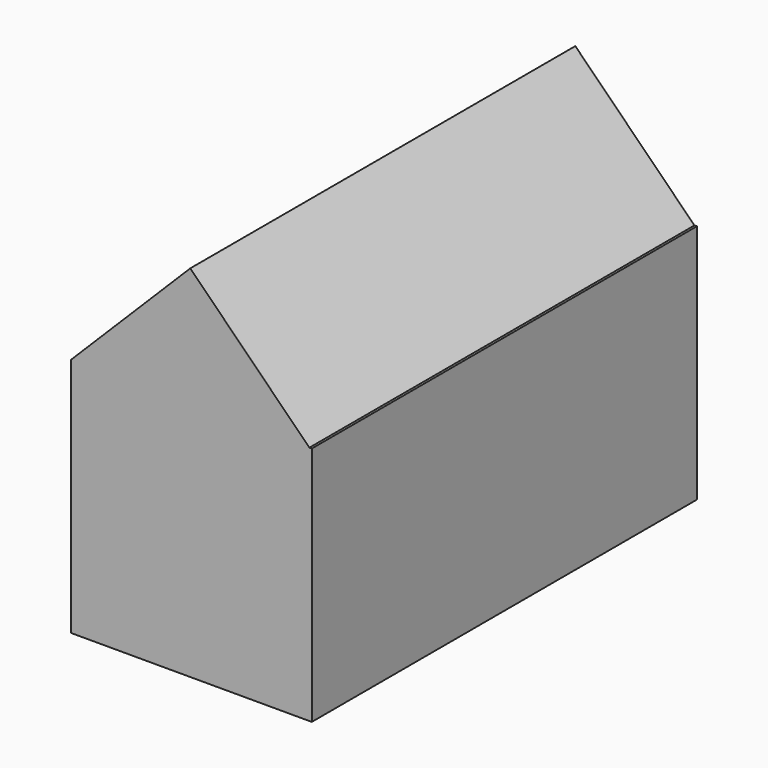
from build123d import *

# Parameters (mm, degrees)
BOX001_W               = 7
BOX001_H               = 20
BOX001_DEPTH           = 7
BOX001_PLACEMENT_ANGLE = 45
BOX_W                  = 10
BOX_H                  = 20
BOX_DEPTH              = 10


with BuildPart() as cub001:
    # Box001 → Box001 (new body)
    with BuildSketch(Plane.XY):
        with Locations((3.5, 10)):
            Rectangle(BOX001_W, BOX001_H)
    extrude(amount=BOX001_DEPTH)


with BuildPart() as cub001_1:
    # Box001 placement: moved
    add(cub001.part.moved(Location((0, 0, 10))).rotate(Axis((0, 0, 10), (0, 1, 0)), BOX001_PLACEMENT_ANGLE))


with BuildPart() as fusion:
    # Box → Box (new body)
    with BuildSketch(Plane.XY):
        with Locations((5, 10)):
            Rectangle(BOX_W, BOX_H)
    extrude(amount=BOX_DEPTH)

    # Fusion: union Cub001
    add(cub001_1.part)


with BuildPart() as fusion_1:
    # Fusion placement: moved
    add(fusion.part.moved(Location((-4, -10, 0))))


solid = fusion_1.part
